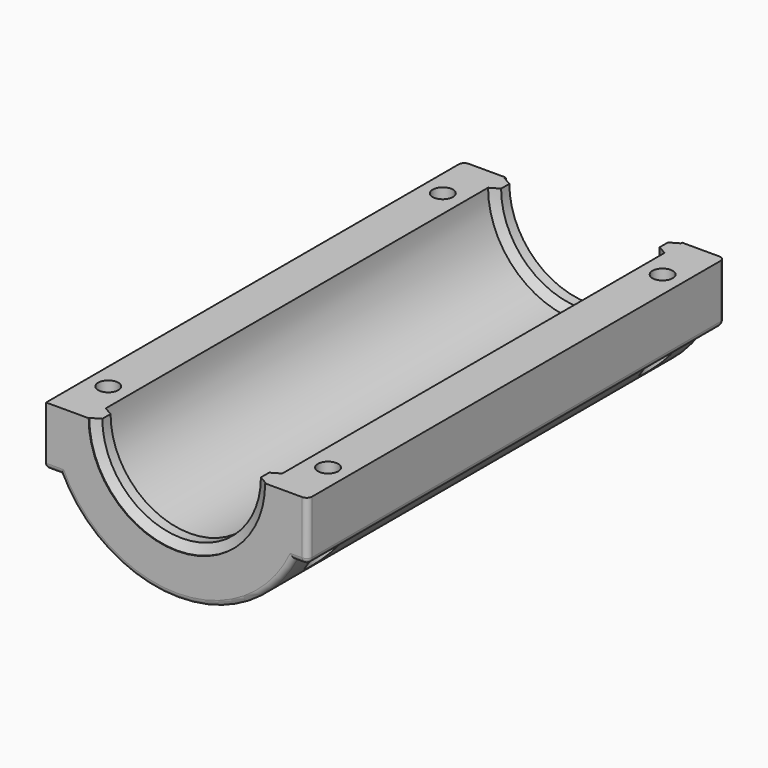
from build123d import *

# Parameters (mm, degrees)
PAD015_DEPTH        = 70.75
REVOLUTION002_ANGLE = 180
SKETCH027_R         = 1.375
POCKET008_DEPTH     = 17.751
SKETCH028_R         = 2.5
POCKET009_DEPTH     = 9.751
FILLET001_R         = 0.75


with BuildPart() as part:
    # Sketch025 → Pad015 (new body)
    with BuildSketch(Plane.XZ):
        with BuildLine():
            ThreePointArc((-11.975, 0), (0, -11.975), (11.975, 0))
            Line((11.975, 0), (17.754952, 0))
            Line((17.754952, -8), (17.754952, 0))
            Line((15.844952, -8), (17.754952, -8))
            ThreePointArc((-15.844952, -8), (0, -17.75), (15.844952, -8))
            Line((-15.844952, -8), (-17.754952, -8))
            Line((-17.754952, -8), (-17.754952, 0))
            Line((-17.754952, 0), (-11.975, 0))
        make_face()
    extrude(amount=PAD015_DEPTH)

    # Sketch026 (on Face3 of Pad015) → Revolution002 (revolve)
    with BuildSketch(Plane(origin=(0, 0, 0), x_dir=(-1, 0, 0), z_dir=(0, 0, 1))):
        Polygon((13.187436, 69.95), (11.975, 70.65), (10.762564, 69.95), (10.762564, 68.55), (11.975, 67.85), (13.187436, 68.55), align=None)
        Polygon((13.187436, 2.3), (11.975, 3), (10.762564, 2.3), (10.762564, 0.9), (11.975, 0.2), (13.187436, 0.9), align=None)
    revolve(axis=Axis((0, 0, 0), (0, -1, 0)), revolution_arc=REVOLUTION002_ANGLE)

    # Sketch027 (on Face18 of Revolution002) → Pocket008 (cut, through all)
    with BuildSketch(Plane(origin=(0, 0, 0), x_dir=(-1, 0, 0), z_dir=(0, 0, 1))):
        with Locations((-14.915, 63.75)):
            Circle(SKETCH027_R)
        with Locations((14.915, 63.75)):
            Circle(SKETCH027_R)
        with Locations((14.915, 7)):
            Circle(SKETCH027_R)
        with Locations((-14.915, 7)):
            Circle(SKETCH027_R)
    extrude(amount=-POCKET008_DEPTH, mode=Mode.SUBTRACT)

    # Sketch028 (on Face20 of Pocket008) → Pocket009 (cut, through all)
    with BuildSketch(Plane(origin=(0, 0, -8), x_dir=(1, 0, 0), z_dir=(0, 0, -1))):
        with Locations((-14.915, 63.75)):
            Circle(SKETCH028_R)
        with Locations((14.915, 63.75)):
            Circle(SKETCH028_R)
        with Locations((14.915, 7)):
            Circle(SKETCH028_R)
        with Locations((-14.915, 7)):
            Circle(SKETCH028_R)
    extrude(amount=POCKET009_DEPTH, mode=Mode.SUBTRACT)

    # Fillet001
    fillet001_edges = [part.edges().sort_by_distance(p)[0] for p in [
        (-17.754952, 0, -4),
        (-17.754952, -35.375, -8),
        (-16.799952, 0, -8),
        (0, 0, -17.75),
        (16.799952, 0, -8),
        (17.754952, 0, -4),
        (17.754952, -35.375, -8),
        (17.754952, -70.75, -4),
        (16.799952, -70.75, -8),
        (0, -70.75, -17.75),
        (-16.799952, -70.75, -8),
    ]]
    fillet(fillet001_edges, radius=FILLET001_R)


solid = part.part
